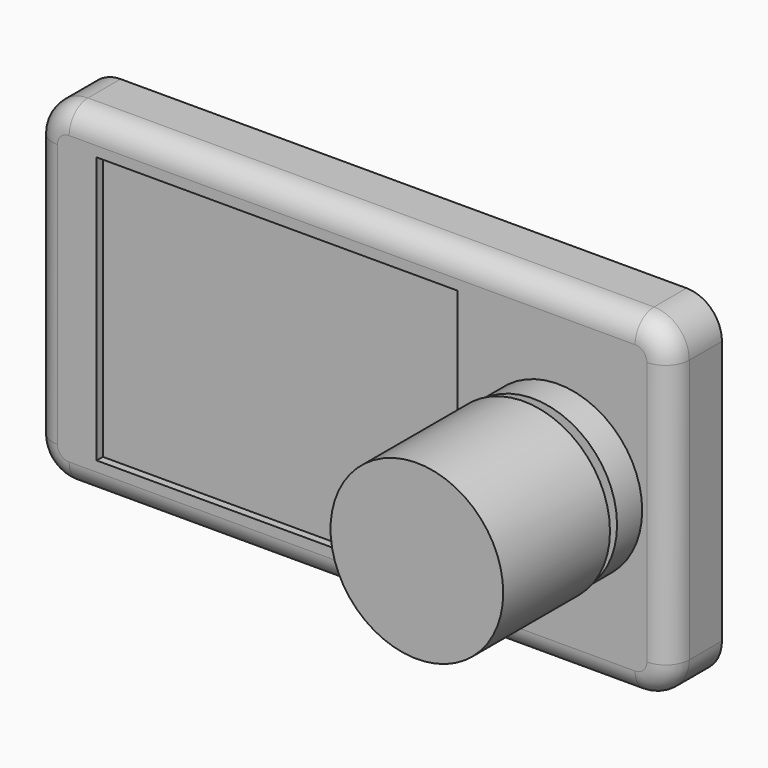
from build123d import *

# Parameters (mm, degrees)
F1_DEPTH  = 8.2
F2_W      = 14.3
F2_H      = 15.8
F3_DEPTH  = 10
F4_R      = 10.7
F5_DEPTH  = 4
F7_DEPTH  = 1
F8_R      = 3
F9_D      = 3.3
F9_DEPTH  = 4
F9_TIP    = 0.9914200214
F10_R     = 9
F11_DEPTH = 1.5
F12_R     = 11
F12_R_2   = 9
F13_DEPTH = 17


with BuildPart() as f1:
    # F0 (on Front) → F1 (new body)
    with BuildSketch(Plane.XZ):
        with BuildLine():
            ThreePointArc((40.55, 16.8), (39.2319805153, 19.9819805153), (36.05, 21.3))
            Line((36.05, 21.3), (-36.05, 21.3))
            ThreePointArc((-36.05, 21.3), (-39.2319805153, 19.9819805153), (-40.55, 16.8))
            Line((-40.55, 16.8), (-40.55, -16.8))
            ThreePointArc((-40.55, -16.8), (-39.2319805153, -19.9819805153), (-36.05, -21.3))
            Line((-36.05, -21.3), (36.05, -21.3))
            ThreePointArc((36.05, -21.3), (39.2319805153, -19.9819805153), (40.55, -16.8))
            Line((40.55, -16.8), (40.55, 16.8))
        make_face()
    extrude(amount=F1_DEPTH)

    # F2 (on face) → F3 (join)
    with BuildSketch(Plane(origin=(0, 0, 0), x_dir=(-1, 0, 0), z_dir=(0, 1, 0))):
        with Locations((-18.3, 0.1)):
            Rectangle(F2_W, F2_H)
    extrude(amount=F3_DEPTH)

    # F4 (on face) → F5 (join)
    with BuildSketch(Plane.XZ.offset(8.2)):
        with Locations((26.25, 0)):
            Circle(F4_R)
    extrude(amount=F5_DEPTH)

    # F6 (on face) → F7 (cut)
    with BuildSketch(Plane.XZ.offset(8.2)):
        Polygon((-32.55, 0), (-32.55, -17), (13.45, -17), (13.45, 17), (-32.55, 17), align=None)
    extrude(amount=-F7_DEPTH, mode=Mode.SUBTRACT)

    # F8
    f8_edges = [f1.edges().sort_by_distance(p)[0] for p in [
        (-40.55, -8.2, 0),
        (-39.231981, -8.2, -19.981981),
        (40.55, -8.2, 0),
    ]]
    fillet(f8_edges, radius=F8_R)

    # F9
    with Locations(Plane(origin=(0, 0, 0), x_dir=(1, 0, 0), z_dir=(0, 1, 0))):
        with Locations((37.2, -14.05), (36.05, 16.8), (-37.2, 14.05), (-37.2, -14.05)):
            Hole(F9_D / 2, depth=F9_DEPTH)
            with Locations((0, 0, -(F9_DEPTH + F9_TIP / 2))):  # 118° drill point
                Cone(0, F9_D / 2, F9_TIP, mode=Mode.SUBTRACT)

    # F10 (on face) → F11 (join)
    with BuildSketch(Plane.XZ.offset(12.2)):
        with Locations((26.25, 0)):
            Circle(F10_R)
    extrude(amount=F11_DEPTH)

    # F12 (on face) → F13 (join)
    with BuildSketch(Plane.XZ.offset(13.7)):
        with Locations((26.25, 0)):
            Circle(F12_R)
        with Locations((26.25, 0)):
            Circle(F12_R_2, mode=Mode.SUBTRACT)
        with Locations((26.25, 0)):
            Circle(F12_R_2)
    extrude(amount=F13_DEPTH)


solid = f1.part
